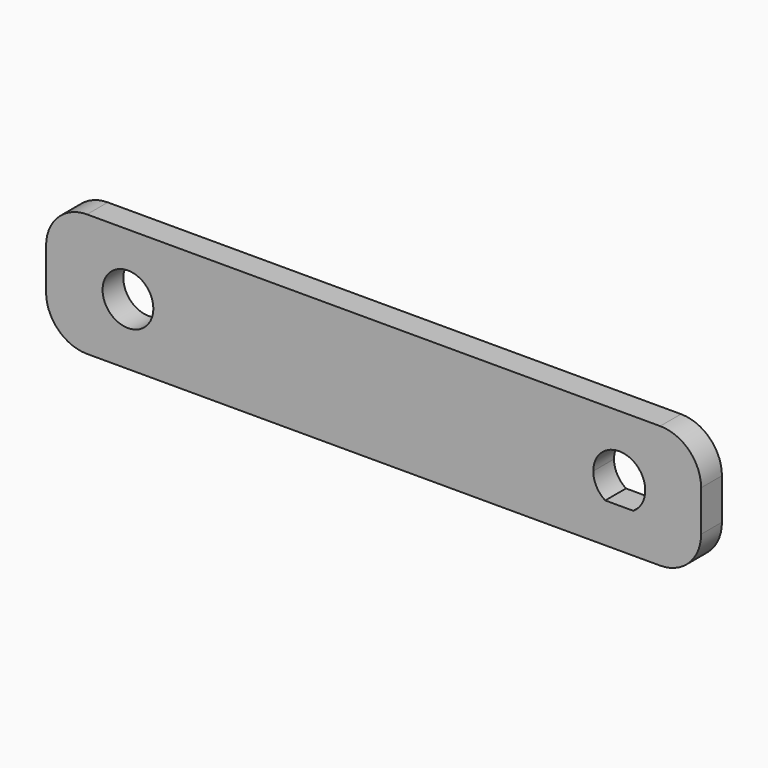
from build123d import *

# Parameters (mm, degrees)
F0_R     = 3.1
F1_DEPTH = 3.175


with BuildPart() as f1:
    # F0 (on Front) → F1 (new body)
    with BuildSketch(Plane.XZ):
        with BuildLine():
            ThreePointArc((40, 2.5), (38.535534, 6.035534), (35, 7.5))
            Line((35, 7.5), (-35, 7.5))
            ThreePointArc((-35, 7.5), (-38.535534, 6.035534), (-40, 2.5))
            Line((-40, 2.5), (-40, -2.5))
            ThreePointArc((-40, -2.5), (-38.535534, -6.035534), (-35, -7.5))
            Line((-35, -7.5), (35, -7.5))
            ThreePointArc((35, -7.5), (38.535534, -6.035534), (40, -2.5))
            Line((40, -2.5), (40, 2.5))
        make_face()
        with Locations((-30, 0)):
            Circle(F0_R, mode=Mode.SUBTRACT)
        with BuildLine():
            ThreePointArc((28.289735, -2.674999), (27.215156, -1.524883), (26.825, 0))
            ThreePointArc((26.825, 0), (31.524883, 2.784844), (31.710265, -2.674999))
            Line((31.710265, -2.674999), (28.289735, -2.674999))
        make_face(mode=Mode.SUBTRACT)
    extrude(amount=F1_DEPTH)


solid = f1.part
